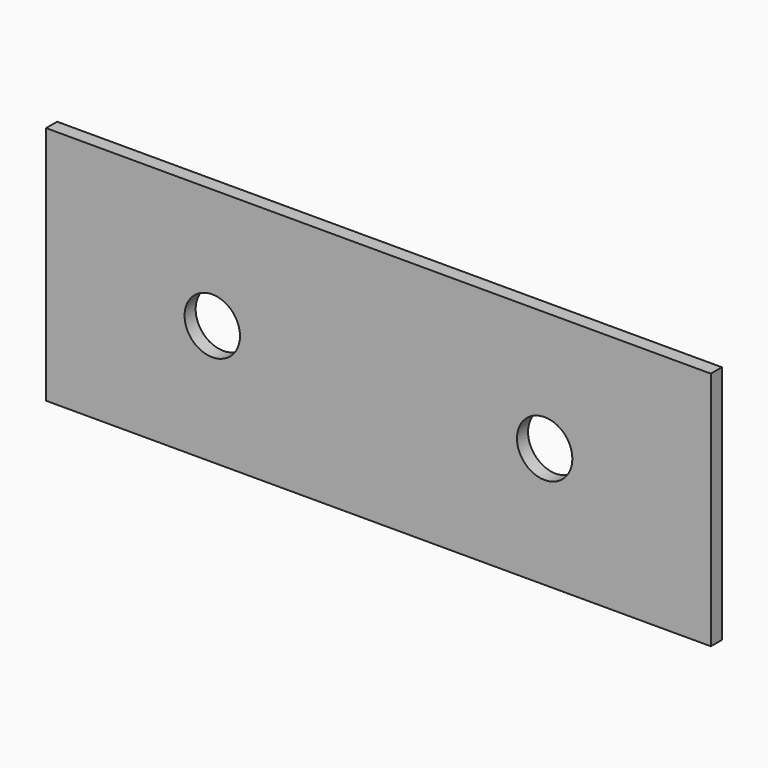
from build123d import *

# Parameters (mm, degrees)
F0_W     = 914.4
F0_H     = 330.2
F1_DEPTH = 19.05
F2_R     = 38.1
F3_DEPTH = 19.051


with BuildPart() as f1:
    # F0 (on Front) → F1 (new body)
    with BuildSketch(Plane.XZ):
        Rectangle(F0_W, F0_H)
    extrude(amount=F1_DEPTH)

    # F2 (on face) → F3 (cut, through all)
    with BuildSketch(Plane.XZ.offset(19.05)):
        with Locations((-228.6, 0)):
            Circle(F2_R)
        with Locations((228.6, 0)):
            Circle(F2_R)
    extrude(amount=-F3_DEPTH, mode=Mode.SUBTRACT)


solid = f1.part
